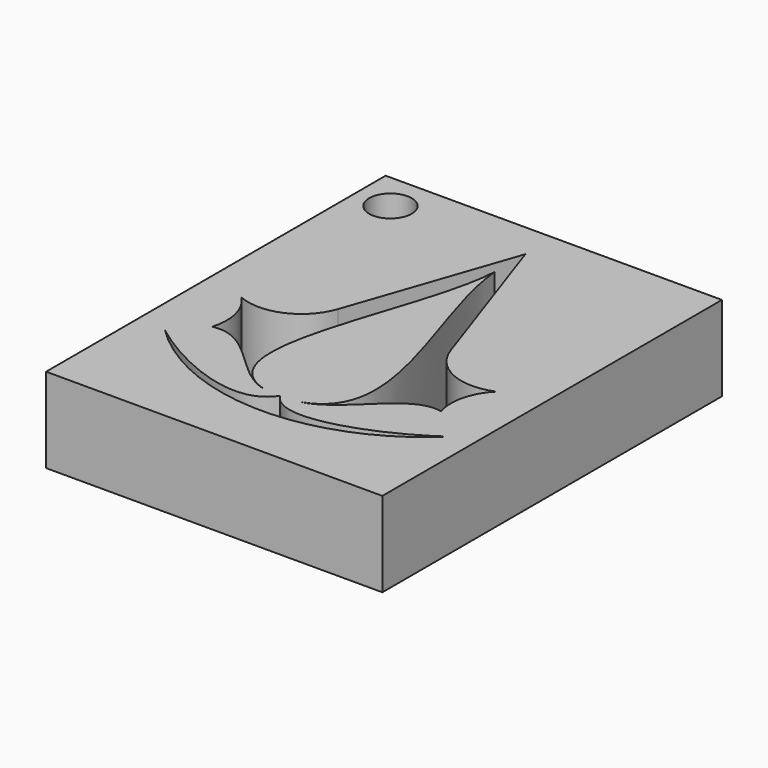
from build123d import *

# Parameters (mm, degrees)
F0_W     = 39.610392
F0_H     = 50
F0_R     = 2.49857
F1_DEPTH = 10


with BuildPart() as f1:
    # F0 (on Top) → F1 (new body)
    with BuildSketch(Plane.XY):
        with Locations((0, 2.218615)):
            Rectangle(F0_W, F0_H)
        with BuildLine():
            ThreePointArc((17.439984, -9.515637), (0.515297, -16.475749), (-16.40939, -9.515637))
            add(Edge.make_bspline(
                [(0, -13.069506), (-2.759309, -17.431528), (-11.705375, -13.140691), (-16.40939, -9.515637)],
                knots=[0, 0, 0, 0, 16.789821, 16.789821, 16.789821, 16.789821], degree=3))
            add(Edge.make_bspline(
                [(0, -13.069506), (2.521035, -17.431528), (13.085214, -12.930726), (17.439984, -9.515637)],
                knots=[0, 0, 0, 0, 17.7984, 17.7984, 17.7984, 17.7984], degree=3))
        make_face(mode=Mode.SUBTRACT)
        with Locations((-15.692642, 22.781385)):
            Circle(F0_R, mode=Mode.SUBTRACT)
        with BuildLine():
            Line((-6.628194, 3.720442), (0, 23.035537))
            Line((0, 23.035537), (6.628194, 3.720442))
            ThreePointArc((6.628194, 3.720442), (10.016927, 0.025924), (15.030141, 0))
            ThreePointArc((15.030141, 0), (13.392417, -2.906154), (13.481836, -6.240802))
            add(Edge.make_bspline(
                [(13.481836, -6.240802), (9.220885, -5.342014), (6.425123, -11.953733), (2.150824, -12.901068)],
                knots=[0, 0, 0, 0, 13.143476, 13.143476, 13.143476, 13.143476], degree=3))
            add(Edge.make_bspline(
                [(2.150824, -12.901068), (11.792642, -9.865808), (0.927339, 8.11935), (0, 18.521211)],
                knots=[0, 0, 0, 0, 31.495803, 31.495803, 31.495803, 31.495803], degree=3))
            add(Edge.make_bspline(
                [(-2.150824, -12.901068), (-11.827089, -9.865808), (-0.506544, 8.11935), (0, 18.521211)],
                knots=[0, 0, 0, 0, 31.495803, 31.495803, 31.495803, 31.495803], degree=3))
            add(Edge.make_bspline(
                [(-13.481836, -6.240802), (-9.247256, -5.342014), (-6.102542, -11.953733), (-2.150824, -12.901068)],
                knots=[0, 0, 0, 0, 13.143476, 13.143476, 13.143476, 13.143476], degree=3))
            ThreePointArc((-13.481836, -6.240802), (-13.392417, -2.906154), (-15.030141, 0))
            ThreePointArc((-15.030141, 0), (-10.016927, 0.025924), (-6.628194, 3.720442))
        make_face(mode=Mode.SUBTRACT)
    extrude(amount=F1_DEPTH)


solid = f1.part
